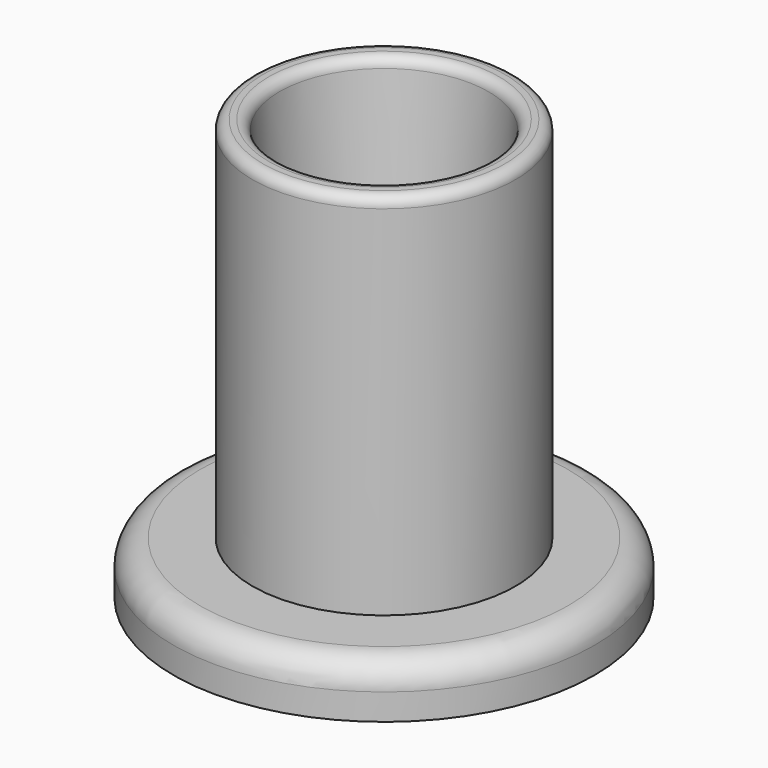
from build123d import *

# Parameters (mm, degrees)
F2_R = 2
F3_R = 5


with BuildPart() as f1:
    # F0 (on Front) → F1 (revolve)
    with BuildSketch(Plane.XZ):
        Polygon((-40, 0), (0, 0), (0, 10), (-15, 10), (-20, 80), (-25, 80), (-25, 10), (-40, 10), align=None)
    revolve(axis=Axis((0, 0, 5), (0, 0, -1)))

    # F2
    f2_edges = [f1.edges().sort_by_distance(p)[0] for p in [
        (15, 0, 10),
        (20, 0, 80),
        (25, 0, 80),
    ]]
    fillet(f2_edges, radius=F2_R)

    # F3
    f3_edges = [f1.edges().sort_by_distance(p)[0] for p in [
        (40, 0, 10),
    ]]
    fillet(f3_edges, radius=F3_R)


solid = f1.part
